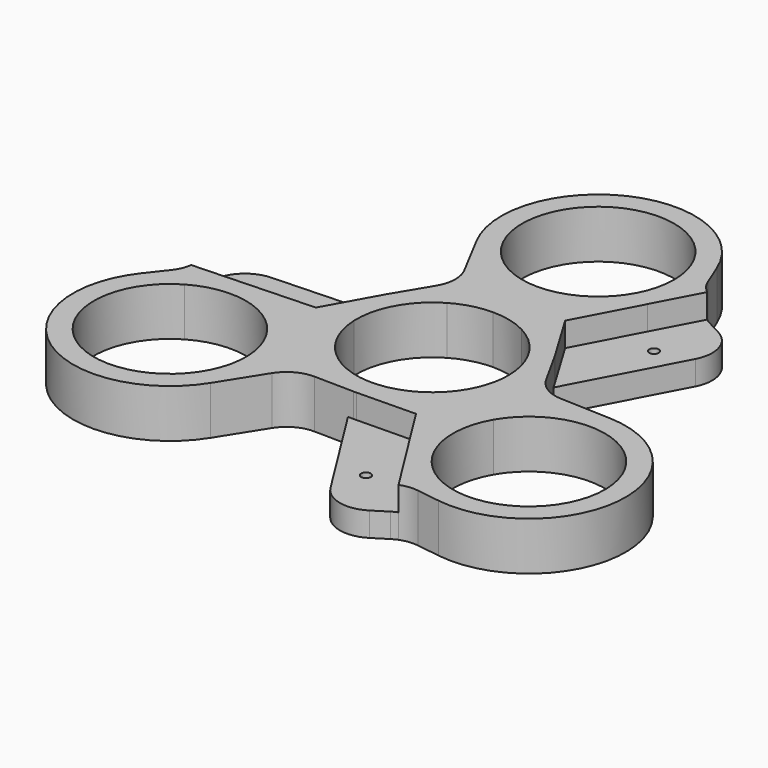
from build123d import *

# Parameters (mm, degrees)
F1_DEPTH = 7
F0_R     = 0.7
F2_DEPTH = 3.5
F4_COUNT = 3


with BuildPart() as f1:
    # F0 (on Top) → F1 (new body)
    with BuildSketch(Plane.XY):
        with BuildLine():
            ThreePointArc((-12.382065884, 23.4666666667), (-7.2295689129, 18.0111162599), (0, 16))
            ThreePointArc((0, 16), (7.2295689129, 18.0111162599), (12.382065884, 23.4666666667))
            ThreePointArc((12.382065884, 23.4666666667), (13.5894981949, 26.6346562119), (14, 30))
            ThreePointArc((14, 30), (13.7458495795, 32.6554885307), (12.992625809, 35.2145637005))
            ThreePointArc((12.992625809, 35.2145637005), (-5.8818761492, 42.7044690155), (-12.382065884, 23.4666666667))
        make_face()
        with BuildLine():
            ThreePointArc((11, 30), (7.7781745931, 22.2218254069), (0, 19))
            ThreePointArc((0, 19), (-7.7781745931, 37.7781745931), (11, 30))
        make_face(mode=Mode.SUBTRACT)
        with BuildLine():
            ThreePointArc((5.1333333333, 9.7287660517), (9.4198372244, 5.6803755744), (11, 0))
            ThreePointArc((11, 0), (-7.7781745931, -7.7781745931), (0, 11))
            Line((0, 11), (0, 14))
            ThreePointArc((0, 14), (-6.8986101971, 12.1823305385), (-12.0058785253, 7.2013110498))
            ThreePointArc((-12.0058785253, 7.2013110498), (-3.7361544833, -13.4922625855), (14, 0))
            ThreePointArc((14, 0), (13.6478746634, 3.1201790289), (12.6092118325, 6.0834017591))
            ThreePointArc((12.6092118325, 6.0834017591), (12.3202312733, 6.649203063), (12.0058785253, 7.2013110498))
            ThreePointArc((12.0058785253, 7.2013110498), (9.6247415159, 10.166825992), (6.5333333333, 12.382065884))
            Line((6.5333333333, 12.382065884), (5.1333333333, 9.7287660517))
        make_face()
        with BuildLine():
            ThreePointArc((0, 11), (2.6441986906, 10.6774628674), (5.1333333333, 9.7287660517))
            Line((5.1333333333, 9.7287660517), (6.5333333333, 12.382065884))
            ThreePointArc((6.5333333333, 12.382065884), (3.3653437881, 13.5894981949), (0, 14))
            Line((0, 14), (0, 11))
        make_face()
        with BuildLine():
            ThreePointArc((0, 14), (3.3653437881, 13.5894981949), (6.5333333333, 12.382065884))
            Line((6.5333333333, 12.382065884), (7.6401623132, 14.4797438458))
            Line((7.6401623132, 14.4797438458), (12.382065884, 23.4666666667))
            ThreePointArc((12.382065884, 23.4666666667), (7.2295689129, 18.0111162599), (0, 16))
            Line((0, 16), (0, 14))
        make_face()
        with BuildLine():
            ThreePointArc((-12.0058785253, 7.2013110498), (-6.8986101971, 12.1823305385), (0, 14))
            Line((0, 14), (0, 16))
            ThreePointArc((0, 16), (-7.2295689129, 18.0111162599), (-12.382065884, 23.4666666667))
            Line((-12.382065884, 23.4666666667), (-8.9542338488, 16.9701908351))
            ThreePointArc((-8.9542338488, 16.9701908351), (-8.3782746662, 14.4999604986), (-9.0885864769, 12.0649606983))
            Line((-9.0885864769, 12.0649606983), (-12.0058785253, 7.2013110498))
        make_face()
        with BuildLine():
            ThreePointArc((14, 30), (13.5894981949, 26.6346562119), (12.382065884, 23.4666666667))
            Line((12.382065884, 23.4666666667), (15.8105643506, 29.9644055284))
            ThreePointArc((15.8105643506, 29.9644055284), (14.907806517, 30.8930023195), (14.2738299895, 32.0223107225))
            Line((14.2738299895, 32.0223107225), (12.992625809, 35.2145637005))
            ThreePointArc((12.992625809, 35.2145637005), (13.7458495795, 32.6554885307), (14, 30))
        make_face()
        with BuildLine():
            Line((7.6401623132, 14.4797438458), (6.5333333333, 12.382065884))
            ThreePointArc((6.5333333333, 12.382065884), (9.6247415159, 10.166825992), (12.0058785253, 7.2013110498))
            Line((12.0058785253, 7.2013110498), (7.6401623132, 14.4797438458))
        make_face()
    extrude(amount=F1_DEPTH)

    # F0 (on Top) → F2 (join)
    with BuildSketch(Plane.XY):
        with BuildLine():
            Line((7.6401623132, 14.4797438458), (12.0058785253, 7.2013110498))
            ThreePointArc((12.0058785253, 7.2013110498), (12.3202312733, 6.649203063), (12.6092118325, 6.0834017591))
            Line((12.6092118325, 6.0834017591), (20.7901645073, 21.588059159))
            ThreePointArc((20.7901645073, 21.588059159), (21.1448577828, 25.3984205095), (18.7013314535, 28.3435588795))
            Line((18.7013314535, 28.3435588795), (16.5807201594, 29.462488514))
            ThreePointArc((16.5807201594, 29.462488514), (16.1840828281, 29.6957099063), (15.8105643506, 29.9644055284))
            Line((15.8105643506, 29.9644055284), (12.382065884, 23.4666666667))
            Line((12.382065884, 23.4666666667), (7.6401623132, 14.4797438458))
        make_face()
        with Locations((15.9327194351, 20.1754820165)):
            Circle(F0_R, mode=Mode.SUBTRACT)
    extrude(amount=F2_DEPTH)

    # F4: F1 ×3 about axis
    f4_axis = Axis((0, 0, 10), (0, 0, 1))


with BuildPart() as f1_1:
    add(f1.part)
    for i in range(1, F4_COUNT):
        add(f1.part.rotate(f4_axis, i * 360 / F4_COUNT))


solid = f1_1.part
